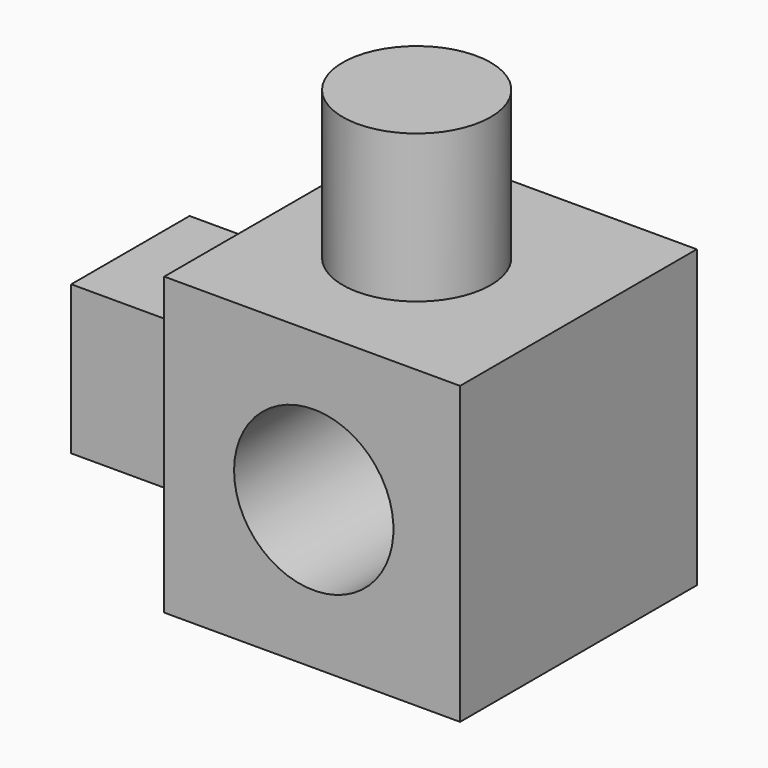
from build123d import *

# Parameters (mm, degrees)
F0_W      = 50.8
F0_H      = 50.8
F0_R      = 12.7
F1_DEPTH  = 50.8
F2_R      = 13.682638
F3_DEPTH  = 25.4
F3_FACE_R = 13.682638
F4_DEPTH  = 25.4
F5_W      = 25.4
F5_H      = 25.56793
F6_DEPTH  = 25.4
F7_R      = 12.7
F8_DEPTH  = 25.4


with BuildPart() as f1:
    # F0 (on Front) → F1 (new body)
    with BuildSketch(Plane.XZ):
        with Locations((-25.4, 25.4)):
            Rectangle(F0_W, F0_H)
        with Locations((-26.229173, 23.804629)):
            Circle(F0_R, mode=Mode.SUBTRACT)
        with Locations((-26.229173, 23.804629)):
            Circle(F0_R)
    extrude(amount=F1_DEPTH)

    # F2 (on face) → F3 (cut)
    with BuildSketch(Plane(origin=(0, 0, 0), x_dir=(-1, 0, 0), z_dir=(0, 1, 0))):
        with Locations((25.127107, 25.4)):
            Circle(F2_R)
    extrude(amount=-F3_DEPTH, mode=Mode.SUBTRACT)

    # F3_face (on face) → F4 (cut)
    with BuildSketch(Plane(origin=(-25.127107, -25.4, 25.4), x_dir=(-1, 0, 0), z_dir=(0, 1, 0))):
        Circle(F3_FACE_R)
    extrude(amount=-F4_DEPTH, mode=Mode.SUBTRACT)

    # F5 (on face) → F6 (join)
    with BuildSketch(Plane(origin=(-50.8, 0, 0), x_dir=(0, -1, 0), z_dir=(-1, 0, 0))):
        with Locations((26.313143, 23.804629)):
            Rectangle(F5_W, F5_H)
    extrude(amount=F6_DEPTH)

    # F7 (on face) → F8 (join)
    with BuildSketch(Plane.XY.offset(50.8)):
        with Locations((-27.772067, -25.4)):
            Circle(F7_R)
    extrude(amount=F8_DEPTH)


solid = f1.part
